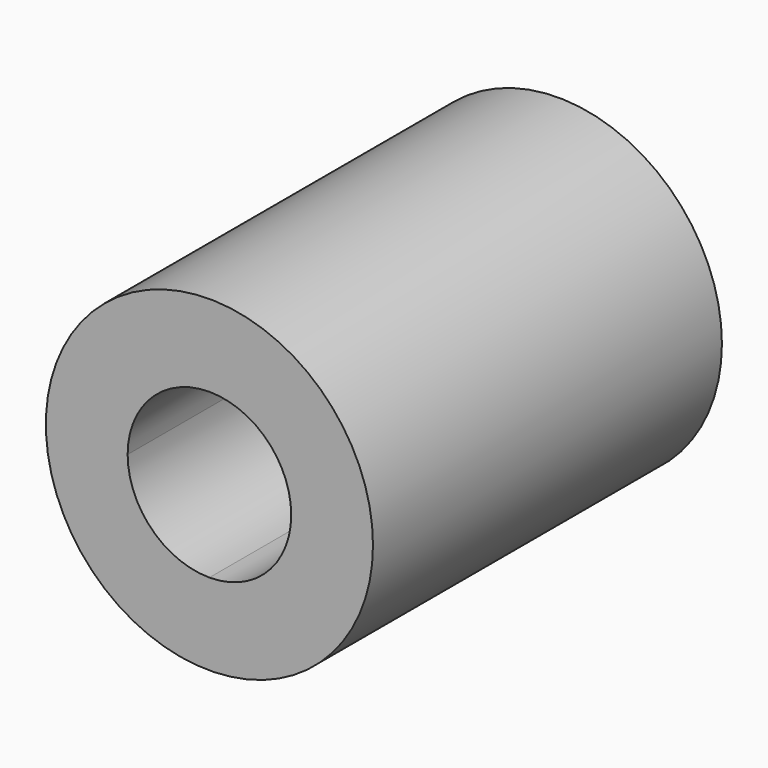
from build123d import *

# Parameters (mm, degrees)
F0_R     = 9.525
F1_DEPTH = 25.4
F3_DEPTH = 25.4
F5_DEPTH = 25.401
F6_DEPTH = 9.525
F8_DEPTH = 12.7


with BuildPart() as f1:
    # F0 (on Front) → F1 (new body)
    with BuildSketch(Plane.XZ):
        Circle(F0_R)
    extrude(amount=F1_DEPTH)

    # F2 (on Front) → F3 (join)
    with BuildSketch(Plane.XZ):
        with BuildLine():
            Line((0, -4.7625), (4.7625, -4.7625))
            Line((4.7625, -4.7625), (4.7625, 0))
            ThreePointArc((4.7625, 0), (3.367596, -3.367596), (0, -4.7625))
        make_face()
        with BuildLine():
            Line((-4.7625, -4.7625), (0, -4.7625))
            ThreePointArc((0, -4.7625), (-3.367596, -3.367596), (-4.7625, 0))
            Line((-4.7625, 0), (-4.7625, -4.7625))
        make_face()
        with BuildLine():
            ThreePointArc((0, 4.7625), (3.367596, 3.367596), (4.7625, 0))
            Line((4.7625, 0), (4.7625, 4.7625))
            Line((4.7625, 4.7625), (0, 4.7625))
        make_face()
        with BuildLine():
            Line((-4.7625, 4.7625), (-4.7625, 0))
            ThreePointArc((-4.7625, 0), (-3.367596, 3.367596), (0, 4.7625))
            Line((0, 4.7625), (-4.7625, 4.7625))
        make_face()
    extrude(amount=F3_DEPTH)

    # F4 (on Front) → F5 (cut, through all)
    with BuildSketch(Plane.XZ):
        with BuildLine():
            ThreePointArc((-4.7625, 0), (-3.367596, -3.367596), (0, -4.7625))
            ThreePointArc((0, -4.7625), (3.367596, -3.367596), (4.7625, 0))
            ThreePointArc((4.7625, 0), (3.367596, 3.367596), (0, 4.7625))
            ThreePointArc((0, 4.7625), (-3.367596, 3.367596), (-4.7625, 0))
        make_face()
    extrude(amount=F5_DEPTH, mode=Mode.SUBTRACT)

    # F4 (on Front) → F6 (cut)
    with BuildSketch(Plane.XZ):
        with BuildLine():
            Line((0, -4.7625), (4.7625, -4.7625))
            Line((4.7625, -4.7625), (4.7625, 0))
            ThreePointArc((4.7625, 0), (3.367596, -3.367596), (0, -4.7625))
        make_face()
        with BuildLine():
            Line((-4.7625, -4.7625), (0, -4.7625))
            ThreePointArc((0, -4.7625), (-3.367596, -3.367596), (-4.7625, 0))
            Line((-4.7625, 0), (-4.7625, -4.7625))
        make_face()
        with BuildLine():
            ThreePointArc((0, 4.7625), (3.367596, 3.367596), (4.7625, 0))
            Line((4.7625, 0), (4.7625, 4.7625))
            Line((4.7625, 4.7625), (0, 4.7625))
        make_face()
        with BuildLine():
            Line((-4.7625, 4.7625), (-4.7625, 0))
            ThreePointArc((-4.7625, 0), (-3.367596, 3.367596), (0, 4.7625))
            Line((0, 4.7625), (-4.7625, 4.7625))
        make_face()
    extrude(amount=F6_DEPTH, mode=Mode.SUBTRACT)

    # F7 (on face) → F8 (cut)
    with BuildSketch(Plane(origin=(0, 0, 0), x_dir=(-1, 0, 0), z_dir=(0, 1, 0))):
        Polygon((7.14904, -4.1275), (7.14904, 4.1275), (0, 8.255), (-7.14904, 4.1275), (-7.14904, -4.1275), (0, -8.255), align=None)
    extrude(amount=-F8_DEPTH, mode=Mode.SUBTRACT)


solid = f1.part
